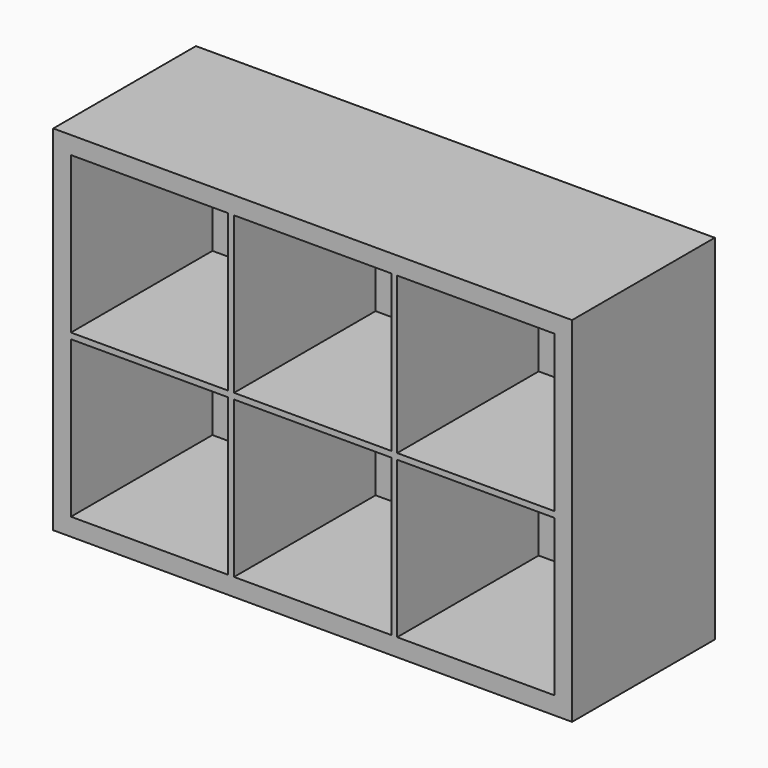
from build123d import *

# Parameters (mm, degrees)
F0_W     = 1117.6
F0_H     = 762
F0_W_2   = 338.666667
F0_H_2   = 336.55
F0_W_3   = 338.666666
F1_DEPTH = 381
F2_W     = 1117.6
F2_H     = 762
F3_DEPTH = 3.175


with BuildPart() as f1:
    # F0 (on Front) → F1 (new body)
    with BuildSketch(Plane.XZ):
        with Locations((558.8, -381)):
            Rectangle(F0_W, F0_H)
        with Locations((207.433334, -555.625)):
            Rectangle(F0_W_2, F0_H_2, mode=Mode.SUBTRACT)
        with Locations((558.8, -555.625)):
            Rectangle(F0_W_3, F0_H_2, mode=Mode.SUBTRACT)
        with Locations((910.166667, -555.625)):
            Rectangle(F0_W_2, F0_H_2, mode=Mode.SUBTRACT)
        with Locations((207.433334, -206.375)):
            Rectangle(F0_W_2, F0_H_2, mode=Mode.SUBTRACT)
        with Locations((558.8, -206.375)):
            Rectangle(F0_W_3, F0_H_2, mode=Mode.SUBTRACT)
        with Locations((910.166667, -206.375)):
            Rectangle(F0_W_2, F0_H_2, mode=Mode.SUBTRACT)
    extrude(amount=-F1_DEPTH)

    # F2 (on face) → F3 (join)
    with BuildSketch(Plane(origin=(0, 381, 0), x_dir=(-1, 0, 0), z_dir=(0, 1, 0))):
        with Locations((-558.8, -381)):
            Rectangle(F2_W, F2_H)
    extrude(amount=F3_DEPTH)


solid = f1.part
